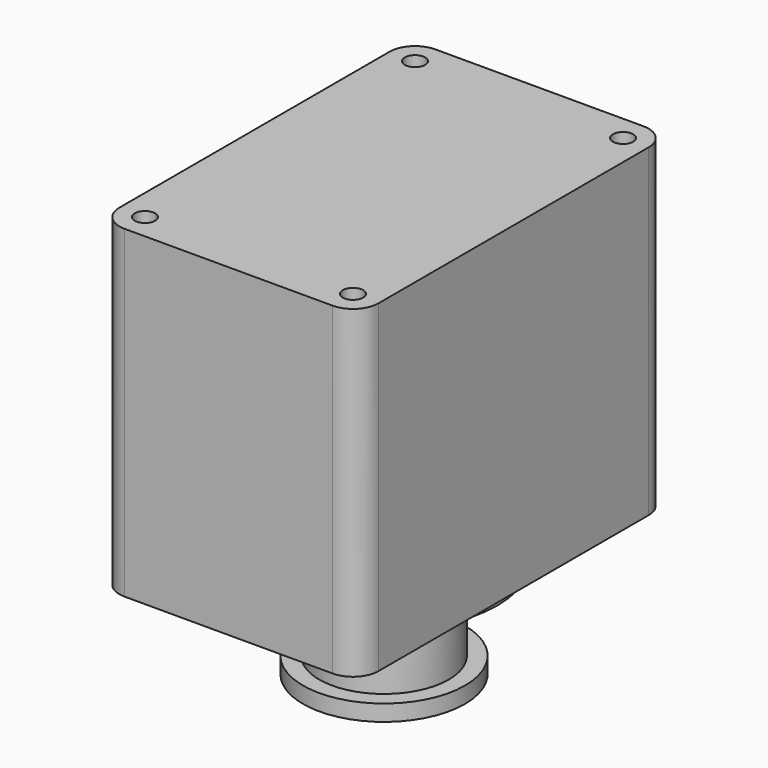
from build123d import *

# Parameters (mm, degrees)
F0_R     = 1.9939
F1_DEPTH = 63.5
F2_R     = 12.7
F3_DEPTH = 19.05
F4_R     = 22.225
F5_DEPTH = 3.175
F6_R     = 15.875
F7_DEPTH = 3.175


with BuildPart() as f1:
    # F0 (on Top) → F1 (new body)
    with BuildSketch(Plane.XY):
        with BuildLine():
            ThreePointArc((-25.4, -33.1), (-23.935534, -36.635534), (-20.4, -38.1))
            Line((-20.4, -38.1), (20.4, -38.1))
            ThreePointArc((20.4, -38.1), (23.935534, -36.635534), (25.4, -33.1))
            Line((25.4, -33.1), (25.4, 33.1))
            ThreePointArc((25.4, 33.1), (23.935534, 36.635534), (20.4, 38.1))
            Line((20.4, 38.1), (-20.4, 38.1))
            ThreePointArc((-20.4, 38.1), (-23.935534, 36.635534), (-25.4, 33.1))
            Line((-25.4, 33.1), (-25.4, -33.1))
        make_face()
        with Locations((-20.4, -33.1)):
            Circle(F0_R, mode=Mode.SUBTRACT)
        with Locations((20.4, -33.1)):
            Circle(F0_R, mode=Mode.SUBTRACT)
        with Locations((-20.4, 33.1)):
            Circle(F0_R, mode=Mode.SUBTRACT)
        with Locations((20.4, 33.1)):
            Circle(F0_R, mode=Mode.SUBTRACT)
    extrude(amount=F1_DEPTH)

    # F2 (on face) → F3 (join)
    with BuildSketch(Plane(origin=(0, 0, 0), x_dir=(1, 0, 0), z_dir=(0, 0, -1))):
        Circle(F2_R)
    extrude(amount=F3_DEPTH)

    # F4 (on face) → F5 (join)
    with BuildSketch(Plane(origin=(0, 0, 0), x_dir=(1, 0, 0), z_dir=(0, 0, -1))):
        Circle(F4_R)
    extrude(amount=F5_DEPTH)

    # F6 (on face) → F7 (join)
    with BuildSketch(Plane(origin=(0, 0, -19.05), x_dir=(1, 0, 0), z_dir=(0, 0, -1))):
        Circle(F6_R)
    extrude(amount=F7_DEPTH)


solid = f1.part
